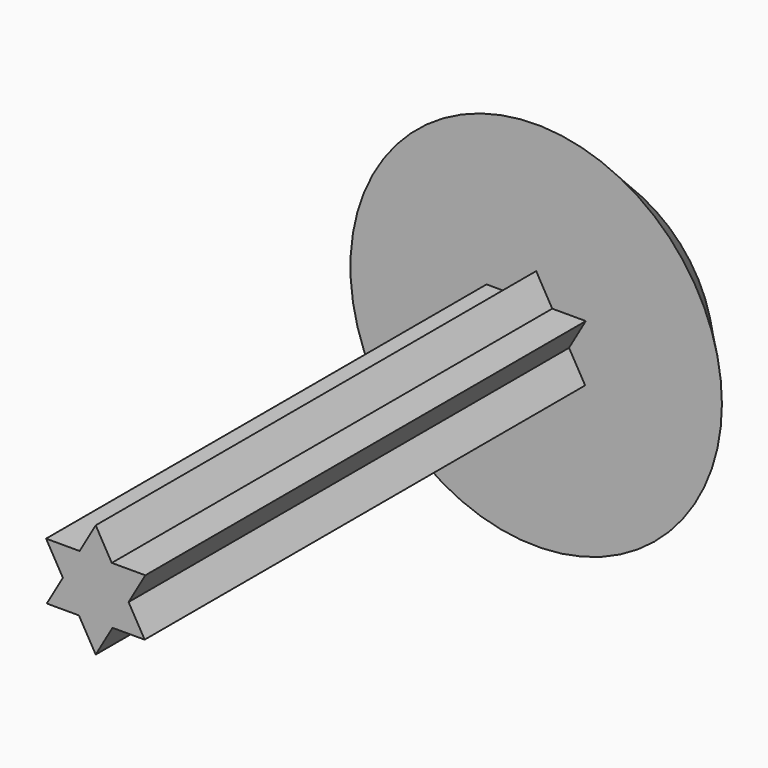
from build123d import *

# Parameters (mm, degrees)
F1_DEPTH = 150
F2_R     = 31.555466285
F3_DEPTH = 15
F3_TAPER = -43


with BuildPart() as f1:
    # F0 (on Front) → F1 (new body)
    with BuildSketch(Plane.XZ):
        Polygon((4.1126201522, -6.9278548141), (11.9993965254, -6.9278548141), (8.0560083388, -0.0977061209), (12.168628491, 7.025560935), (3.9433881866, 7.025560935), (0, 13.8557096282), (-3.9433881866, 7.025560935), (-12.168628491, 7.025560935), (-8.0560083388, -0.0977061209), (-11.9993965254, -6.9278548141), (-4.1126201522, -6.9278548141), (0, -14.0511218699), align=None)
    extrude(amount=F1_DEPTH)

    # F2 (on Front) → F3 (join)
    with BuildSketch(Plane.XZ):
        Circle(F2_R)
    extrude(amount=F3_DEPTH, taper=F3_TAPER)


solid = f1.part
